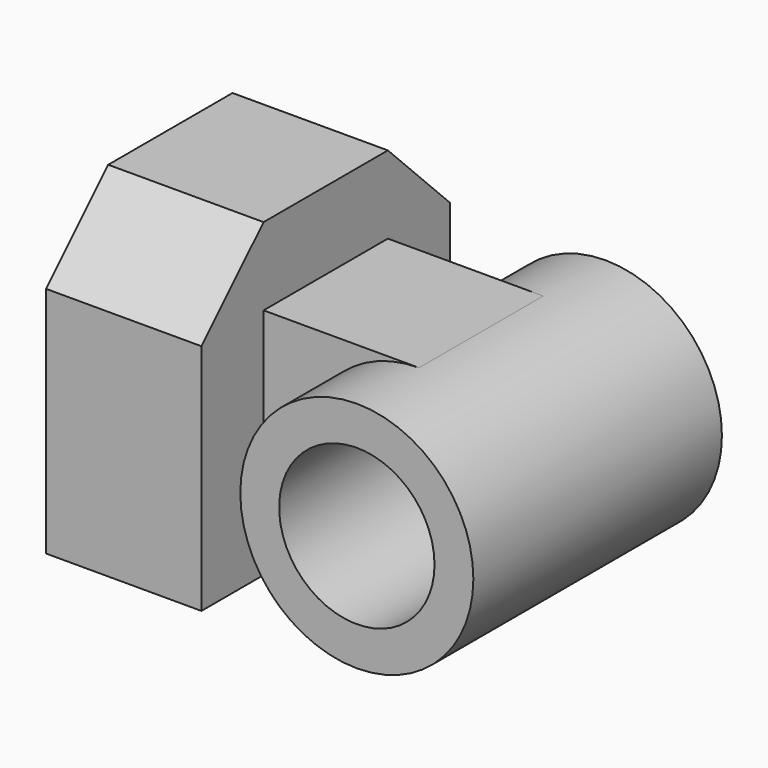
from build123d import *

# Parameters (mm, degrees)
F0_R     = 9.525
F1_DEPTH = 25.4
F2_R     = 6.35
F3_DEPTH = 25.4
F6_DEPTH = 6.35
F8_DEPTH = 12.7


with BuildPart() as f1:
    # F0 (on Front) → F1 (new body)
    with BuildSketch(Plane.XZ):
        Circle(F0_R)
    extrude(amount=-F1_DEPTH)

    # F2 (on Front) → F3 (cut)
    with BuildSketch(Plane.XZ):
        Circle(F2_R)
    extrude(amount=-F3_DEPTH, mode=Mode.SUBTRACT)

    # F5 (on offset) → F6 (join, symmetric)
    with BuildSketch(Plane.XZ.offset(-12.7)):
        with BuildLine():
            Line((-12.703009, -9.525), (0, -9.525))
            ThreePointArc((0, -9.525), (-9.525, 0), (0, 9.525))
            Line((0, 9.525), (-12.703009, 9.525))
            Line((-12.703009, 9.525), (-12.703009, -9.525))
        make_face()
    extrude(amount=F6_DEPTH, both=True)

    # F7 (on face) → F8 (join)
    with BuildSketch(Plane(origin=(-12.703009, 0, 0), x_dir=(0, -1, 0), z_dir=(-1, 0, 0))):
        Polygon((-25.4, -9.525), (0, -9.525), (0, 9.525), (-6.35, 15.875), (-19.05, 15.875), (-25.4, 9.525), align=None)
    extrude(amount=F8_DEPTH)


solid = f1.part
